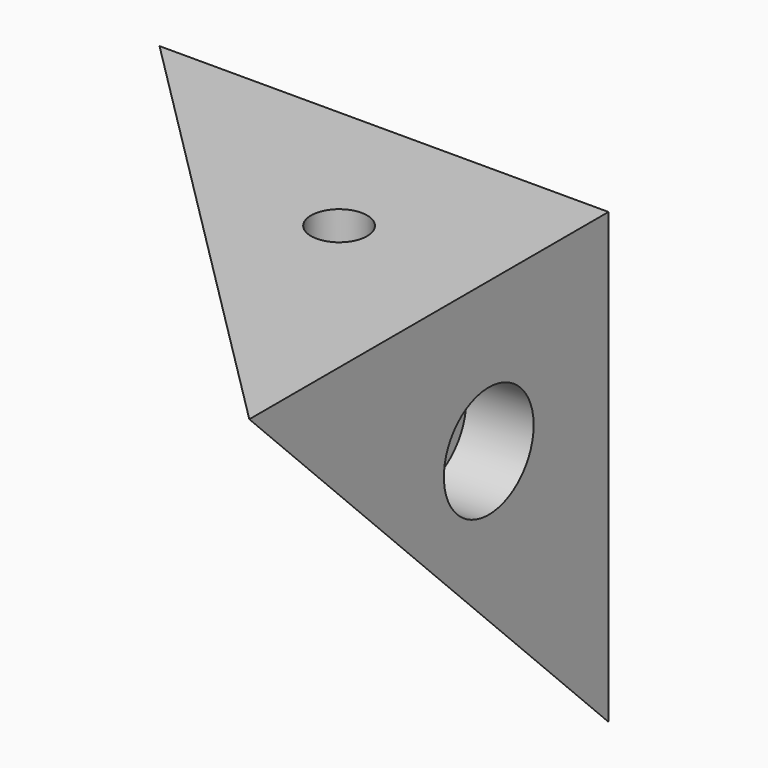
from build123d import *

# Parameters (mm, degrees)
F0_W      = 50.8
F0_H      = 50.8
F1_DEPTH  = 50.8
F4_DEPTH  = 58.6597873497
F5_R      = 6.35
F8_DEPTH  = 7.62
F6_R      = 3.175
F9_DEPTH  = 7.62
F7_R      = 1.5875
F10_DEPTH = 7.62


with BuildPart() as f1:
    # F0 (on Top) → F1 (new body)
    with BuildSketch(Plane.XY):
        Rectangle(F0_W, F0_H)
    extrude(amount=F1_DEPTH)

    # F3 (on 3pt) → F4 (cut, through all)
    with BuildSketch(Plane(origin=(16.9333333333, 16.9333333333, 16.9333333333), x_dir=(0.8164965809, -0.4082482905, -0.4082482905), z_dir=(-0.5773502692, -0.5773502692, -0.5773502692))):
        Polygon((-51.8475328889, 17.9605122421), (-31.1085197333, -17.9605122421), (10.3695065778, -17.9605122421), (31.1085197333, 17.9605122421), (10.3695065778, 53.8815367264), (-31.1085197333, 53.8815367264), align=None)
    extrude(amount=F4_DEPTH, mode=Mode.SUBTRACT)

    # F5 (on face) → F8 (cut)
    with BuildSketch(Plane.YZ.offset(25.4)):
        with Locations((8.4666666667, 33.8666666667)):
            Circle(F5_R)
    extrude(amount=-F8_DEPTH, mode=Mode.SUBTRACT)

    # F6 (on face) → F9 (cut)
    with BuildSketch(Plane.XY.offset(50.8)):
        with Locations((8.4666666667, 8.4666666667)):
            Circle(F6_R)
    extrude(amount=-F9_DEPTH, mode=Mode.SUBTRACT)

    # F7 (on face) → F10 (cut)
    with BuildSketch(Plane(origin=(0, 25.4, 0), x_dir=(-1, 0, 0), z_dir=(0, 1, 0))):
        with Locations((-8.4666666667, 33.8666666667)):
            Circle(F7_R)
    extrude(amount=-F10_DEPTH, mode=Mode.SUBTRACT)


solid = f1.part
